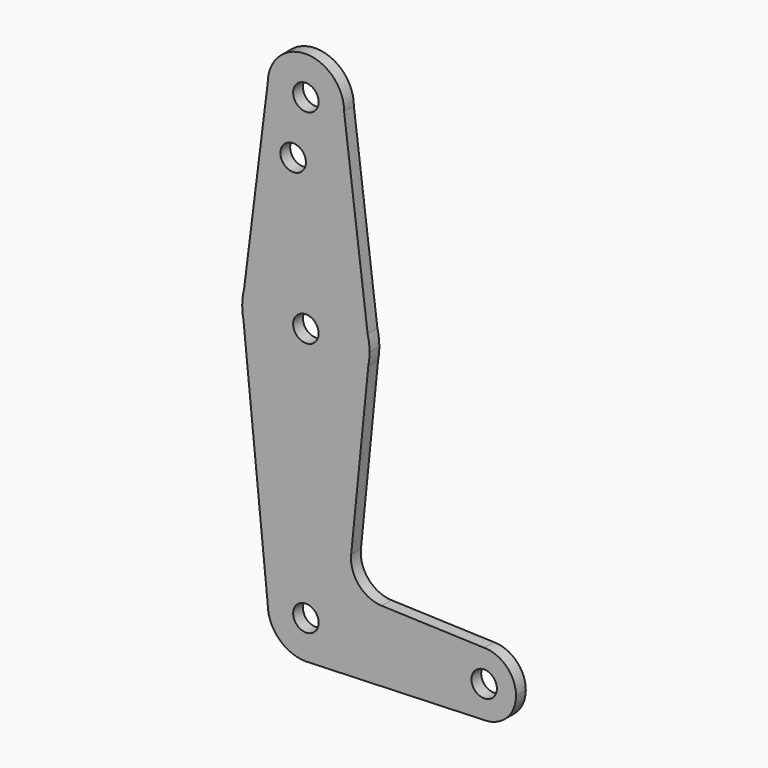
from build123d import *

# Parameters (mm, degrees)
F0_R     = 3.175
F1_DEPTH = 3.048


with BuildPart() as f1:
    # F0 (on Front) → F1 (new body)
    with BuildSketch(Plane.XZ):
        with BuildLine():
            ThreePointArc((-9.525, 69.404175417), (0, 59.879175417), (9.525, 69.404175417))
            ThreePointArc((9.525, 69.404175417), (0, 78.929175417), (-9.525, 69.404175417))
        make_face()
        with Locations((0, 69.404175417)):
            Circle(F0_R, mode=Mode.SUBTRACT)
        with BuildLine():
            Line((15.3865384615, 22.5118677247), (9.525, 69.404175417))
            ThreePointArc((9.525, 69.404175417), (0, 59.879175417), (-9.525, 69.404175417))
            Line((-9.525, 69.404175417), (-15.3865384615, 22.5118677247))
            ThreePointArc((-15.3865384615, 22.5118677247), (0, 34.479175417), (15.3865384615, 22.5118677247))
        make_face()
        with Locations((-3.175, 55.129375417)):
            Circle(F0_R, mode=Mode.SUBTRACT)
        with BuildLine():
            Line((15.875, 18.604175417), (15.3865384615, 22.5118677247))
            ThreePointArc((15.3865384615, 22.5118677247), (0, 34.479175417), (-15.3865384615, 22.5118677247))
            Line((-15.3865384615, 22.5118677247), (-15.875, 18.604175417))
            Line((-15.875, 18.604175417), (-15.56017529, 15.4582939915))
            ThreePointArc((-15.56017529, 15.4582939915), (0, 2.729175417), (15.56017529, 15.4582939915))
            Line((15.56017529, 15.4582939915), (15.875, 18.604175417))
        make_face()
        with Locations((0, 18.604175417)):
            Circle(F0_R, mode=Mode.SUBTRACT)
        with BuildLine():
            ThreePointArc((15.875, 18.604175417), (15.7524112928, 20.5732268286), (15.3865384615, 22.5118677247))
            Line((15.3865384615, 22.5118677247), (15.875, 18.604175417))
        make_face()
        with BuildLine():
            Line((-15.875, 18.604175417), (-15.3865384615, 22.5118677247))
            ThreePointArc((-15.3865384615, 22.5118677247), (-15.7524112928, 20.5732268286), (-15.875, 18.604175417))
        make_face()
        with BuildLine():
            ThreePointArc((15.56017529, 15.4582939915), (15.7960977417, 17.0233777907), (15.875, 18.604175417))
            Line((15.875, 18.604175417), (15.56017529, 15.4582939915))
        make_face()
        with BuildLine():
            Line((-15.56017529, 15.4582939915), (-15.875, 18.604175417))
            ThreePointArc((-15.875, 18.604175417), (-15.7960977417, 17.0233777907), (-15.56017529, 15.4582939915))
        make_face()
        with BuildLine():
            Line((11.2799280511, -27.3120155153), (15.56017529, 15.4582939915))
            ThreePointArc((15.56017529, 15.4582939915), (0, 2.729175417), (-15.56017529, 15.4582939915))
            Line((-15.56017529, 15.4582939915), (-9.5202248579, -44.895824583))
            ThreePointArc((-9.5202248579, -44.895824583), (0, -35.3755997251), (9.5202248579, -44.895824583))
            ThreePointArc((9.5202248579, -44.895824583), (6.9670991454, -51.3838297343), (0.6771121223, -54.3919396054))
            Line((0.6771121223, -54.3919396054), (44.45, -52.833324583))
            ThreePointArc((44.45, -52.833324583), (36.5125, -44.895824583), (44.45, -36.958324583))
            Line((44.45, -36.958324583), (18.9077114359, -36.0488439298))
            ThreePointArc((18.9077114359, -36.0488439298), (13.2017270732, -33.3323418752), (11.2799280511, -27.3120155153))
        make_face()
        with BuildLine():
            ThreePointArc((9.5202248579, -44.895824583), (0, -35.3755997251), (-9.5202248579, -44.895824583))
            ThreePointArc((-9.5202248579, -44.895824583), (-6.7318155554, -51.6276401384), (0, -54.4160494409))
            Line((0, -54.4160494409), (0.6771121223, -54.3919396054))
            ThreePointArc((0.6771121223, -54.3919396054), (6.9670991454, -51.3838297343), (9.5202248579, -44.895824583))
        make_face()
        with Locations((0, -44.895824583)):
            Circle(F0_R, mode=Mode.SUBTRACT)
        with BuildLine():
            Line((0.6771121223, -54.3919396054), (0, -54.4160494409))
            ThreePointArc((0, -54.4160494409), (0.338770612, -54.4100200727), (0.6771121223, -54.3919396054))
        make_face()
        with BuildLine():
            ThreePointArc((52.3875, -44.895824583), (50.0626600757, -39.2831645073), (44.45, -36.958324583))
            ThreePointArc((44.45, -36.958324583), (36.5125, -44.895824583), (44.45, -52.833324583))
            ThreePointArc((44.45, -52.833324583), (50.0626600757, -50.5084846587), (52.3875, -44.895824583))
        make_face()
        with Locations((44.45, -44.895824583)):
            Circle(F0_R, mode=Mode.SUBTRACT)
    extrude(amount=F1_DEPTH)


solid = f1.part
